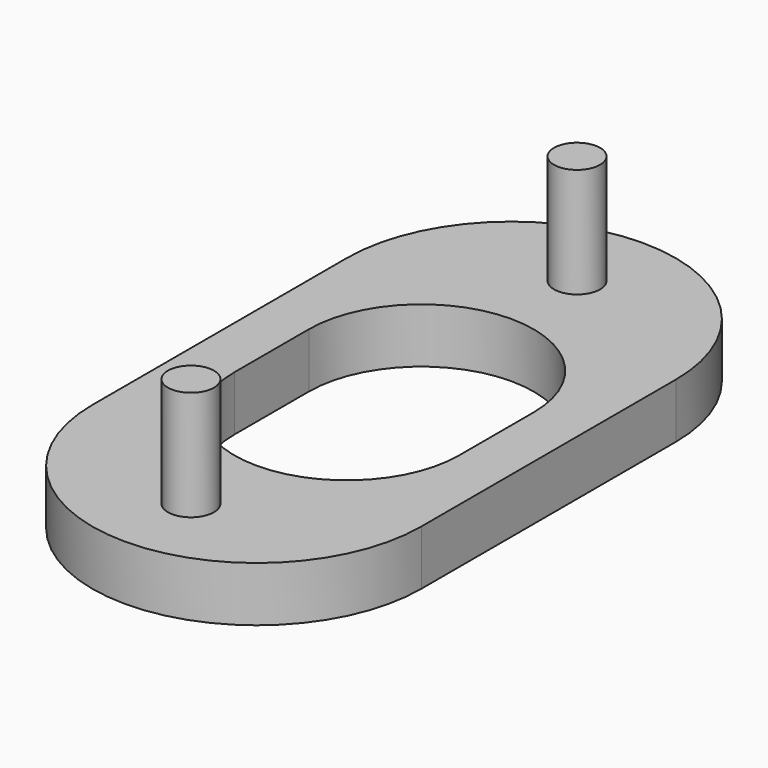
from build123d import *

# Parameters (mm, degrees)
F0_R     = 2.1
F1_DEPTH = 5
F2_DEPTH = 15


with BuildPart() as f1:
    # F0 (on Top) → F1 (new body)
    with BuildSketch(Plane.XY):
        with BuildLine():
            Line((15, -14.5), (15, 14.5))
            ThreePointArc((15, 14.5), (0, 29.5), (-15, 14.5))
            Line((-15, 14.5), (-15, -14.5))
            ThreePointArc((-15, -14.5), (0, -29.5), (15, -14.5))
        make_face()
        with Locations((0, -22)):
            Circle(F0_R, mode=Mode.SUBTRACT)
        with BuildLine():
            ThreePointArc((-10.25, 4.25), (0, 14.5), (10.25, 4.25))
            Line((10.25, 4.25), (10.25, -4.25))
            ThreePointArc((10.25, -4.25), (0, -14.5), (-10.25, -4.25))
            Line((-10.25, -4.25), (-10.25, 4.25))
        make_face(mode=Mode.SUBTRACT)
        with Locations((0, 22)):
            Circle(F0_R, mode=Mode.SUBTRACT)
    extrude(amount=F1_DEPTH)

    # F0 (on Top) → F2 (join)
    with BuildSketch(Plane.XY):
        with Locations((0, 22)):
            Circle(F0_R)
        with Locations((0, -22)):
            Circle(F0_R)
    extrude(amount=F2_DEPTH)


solid = f1.part
